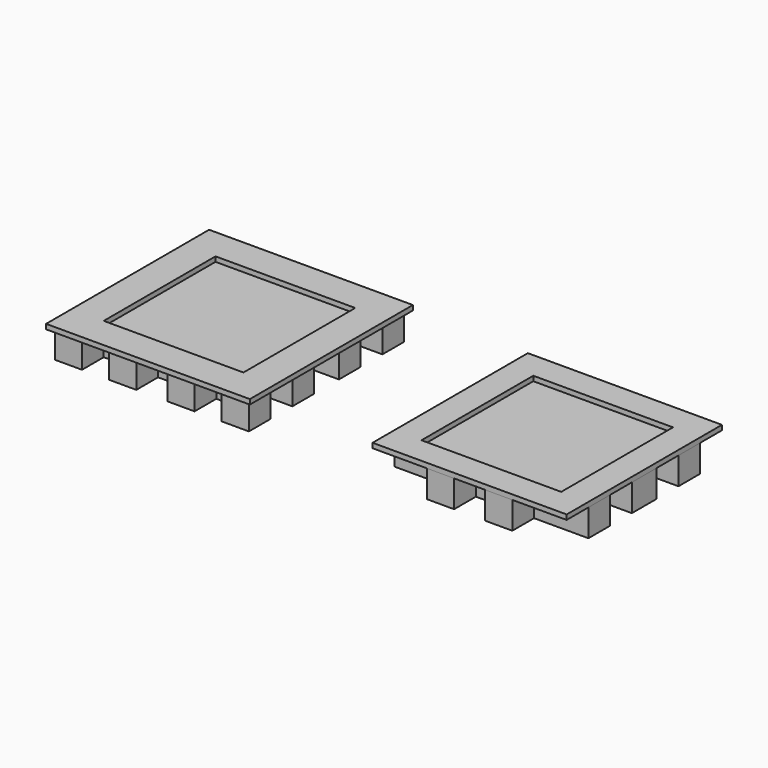
from build123d import *

# Parameters (mm, degrees)
F0_W     = 7.112
F0_H     = 7.112
F0_W_2   = 8.128
F0_H_2   = 8.128
F1_DEPTH = 7.112
F2_W     = 8.382
F2_H     = 8.382
F2_W_2   = 36.576
F2_H_2   = 36.576
F3_DEPTH = 1.27
F4_W     = 7.112
F4_H     = 7.112
F4_W_2   = 36.576
F4_H_2   = 36.576
F5_DEPTH = 1.27


with BuildPart() as f1:
    # F0 (on Top) → F1 (new body)
    with BuildSketch(Plane.XY):
        with Locations((-24.729722, 23.215602)):
            Rectangle(F0_W, F0_H)
        with Locations((-10.505722, 23.215602)):
            Rectangle(F0_W, F0_H)
        with Locations((4.734278, 23.215602)):
            Rectangle(F0_W, F0_H)
        with Locations((18.958278, 23.215602)):
            Rectangle(F0_W, F0_H)
        with Locations((18.958278, 8.991602)):
            Rectangle(F0_W, F0_H)
        with Locations((18.958278, -6.248398)):
            Rectangle(F0_W, F0_H)
        with Locations((18.958278, -20.472398)):
            Rectangle(F0_W, F0_H)
        with Locations((4.734278, -20.472398)):
            Rectangle(F0_W, F0_H)
        Polygon((-14.061722, 19.659602), (-21.173722, 19.659602), (-21.173722, 12.547602), (-21.173722, 5.435602), (-21.173722, -2.692398), (-21.173722, -9.804398), (-21.173722, -16.916398), (-14.061722, -16.916398), (-6.949722, -16.916398), (1.178278, -16.916398), (8.290278, -16.916398), (15.402278, -16.916398), (15.402278, -9.804398), (15.402278, -2.692398), (15.402278, 5.435602), (15.402278, 12.547602), (15.402278, 19.659602), (8.290278, 19.659602), (1.178278, 19.659602), (-6.949722, 19.659602), align=None)
        with Locations((-10.505722, -20.472398)):
            Rectangle(F0_W, F0_H)
        with Locations((-24.729722, -20.472398)):
            Rectangle(F0_W, F0_H)
        with Locations((-24.729722, -6.248398)):
            Rectangle(F0_W, F0_H)
        with Locations((-24.729722, 8.991602)):
            Rectangle(F0_W, F0_H)
        Polygon((69.665864, 18.974437), (62.553864, 18.974437), (62.553864, 11.862437), (62.553864, 4.750437), (62.553864, -3.377563), (62.553864, -10.489563), (62.553864, -17.601563), (69.665864, -17.601563), (76.777864, -17.601563), (84.905864, -17.601563), (92.017864, -17.601563), (99.129864, -17.601563), (99.129864, -10.489563), (99.129864, -3.377563), (99.129864, 4.750437), (99.129864, 11.862437), (99.129864, 18.974437), (92.017864, 18.974437), (84.905864, 18.974437), (76.777864, 18.974437), align=None)
        with Locations((95.573864, 22.530437)):
            Rectangle(F0_W, F0_H)
        with Locations((80.841864, 22.530437)):
            Rectangle(F0_W_2, F0_H)
        with Locations((58.997864, 15.418437)):
            Rectangle(F0_W, F0_H)
        with Locations((58.997864, 0.686437)):
            Rectangle(F0_W, F0_H_2)
        with Locations((102.685864, -14.045563)):
            Rectangle(F0_W, F0_H)
        with Locations((102.685864, 0.686437)):
            Rectangle(F0_W, F0_H_2)
        with Locations((58.997864, -14.045563)):
            Rectangle(F0_W, F0_H)
        with Locations((102.685864, 15.418437)):
            Rectangle(F0_W, F0_H)
        with Locations((66.109864, 22.530437)):
            Rectangle(F0_W, F0_H)
        with Locations((73.221864, -21.157563)):
            Rectangle(F0_W, F0_H)
        with Locations((88.461864, -21.157563)):
            Rectangle(F0_W, F0_H)
    extrude(amount=F1_DEPTH)


with BuildPart() as f3:
    # F2 (on face) → F3 (new body)
    with BuildSketch(Plane.XY.offset(7.112)):
        with Locations((-25.364722, -21.107398)):
            Rectangle(F2_W, F2_H)
        with Locations((-2.885722, -21.107398)):
            Rectangle(F2_W_2, F2_H)
        with Locations((-25.364722, 1.371602)):
            Rectangle(F2_W, F2_H_2)
        with Locations((19.593278, -21.107398)):
            Rectangle(F2_W, F2_H)
        with Locations((-25.364722, 23.850602)):
            Rectangle(F2_W, F2_H)
        with Locations((19.593278, 1.371602)):
            Rectangle(F2_W, F2_H_2)
        with Locations((-2.885722, 23.850602)):
            Rectangle(F2_W_2, F2_H)
        with Locations((19.593278, 23.850602)):
            Rectangle(F2_W, F2_H)
    extrude(amount=F3_DEPTH)


with BuildPart() as f5:
    # F4 (on face) → F5 (new body)
    with BuildSketch(Plane.XY.offset(7.112)):
        with Locations((58.997864, -21.157563)):
            Rectangle(F4_W, F4_H)
        with Locations((80.841864, -21.157563)):
            Rectangle(F4_W_2, F4_H)
        with Locations((58.997864, 0.686437)):
            Rectangle(F4_W, F4_H_2)
        with Locations((102.685864, -21.157563)):
            Rectangle(F4_W, F4_H)
        with Locations((58.997864, 22.530437)):
            Rectangle(F4_W, F4_H)
        with Locations((80.841864, 22.530437)):
            Rectangle(F4_W_2, F4_H)
        with Locations((102.685864, 0.686437)):
            Rectangle(F4_W, F4_H_2)
        with Locations((102.685864, 22.530437)):
            Rectangle(F4_W, F4_H)
    extrude(amount=F5_DEPTH)


solid = Compound([f1.part, f3.part, f5.part])
